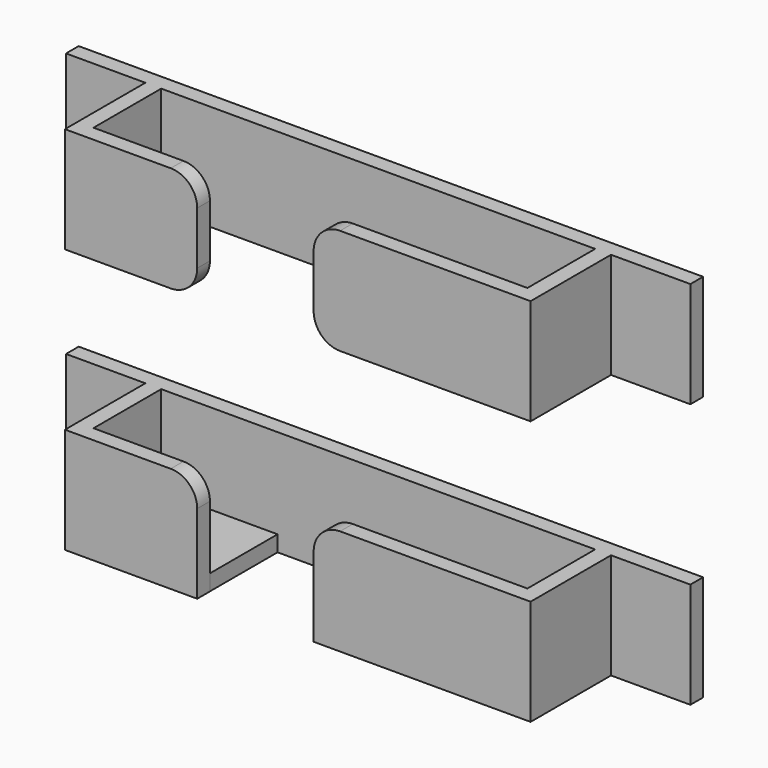
from build123d import *

# Parameters (mm, degrees)
F1_DEPTH  = 20
F3_W      = 22.0410469919
F3_H      = 16.0494968295
F3_W_2    = 38.4351052344
F3_H_2    = 17.3500169185
F4_DEPTH  = 3
F5_R      = 5
F9_DEPTH  = 25
F10_DEPTH = 3
F11_R     = 5


with BuildPart() as f1:
    # F0 (on Top) → F1 (new body)
    with BuildSketch(Plane.XY):
        Polygon((0, 3), (0, 0), (15, 0), (18, 0), (100, 0), (103, 0), (118, 0), (118, 3), align=None)
        Polygon((18, 0), (15, 0), (15, -19), (40, -19), (40, -16), (18, -16), align=None)
        Polygon((103, 0), (100, 0), (100, -16), (62, -16), (62, -19), (103, -19), align=None)
    extrude(amount=F1_DEPTH)

    # F3 (on offset) → F4 (join)
    with BuildSketch(Plane(origin=(0, 0, 0), x_dir=(1, 0, 0), z_dir=(0, 0, -1))):
        with Locations((28.9649507031, 8.0247484148)):
            Rectangle(F3_W, F3_H)
        with Locations((81.2598299235, 7.7891485707)):
            Rectangle(F3_W_2, F3_H_2)
    extrude(amount=-F4_DEPTH)

    # F5
    f5_edges = [f1.edges().sort_by_distance(p)[0] for p in [
        (40, -17.5, 20),
        (62, -17.5, 20),
    ]]
    fillet(f5_edges, radius=F5_R)


with BuildPart() as f6_1:
    # F6: copy of F1
    add(f1.part.moved(Location((0, 0, 50))))


with BuildPart() as f8_1:
    # F8: copy of F1
    add(f1.part.moved(Location((0, 0, 50))))

    # F9 (cut): a face of the model
    f9_faces = [f8_1.faces().sort_by_distance(p)[0] for p in [
        (28.9927370995, -8, 53),
    ]]
    extrude(f9_faces, amount=-F9_DEPTH, mode=Mode.SUBTRACT)

    # F10 (cut): a face of the model
    f10_faces = [f8_1.faces().sort_by_distance(p)[0] for p in [
        (81.0211386532, -8, 53),
    ]]
    extrude(f10_faces, amount=-F10_DEPTH, mode=Mode.SUBTRACT)

    # F11
    f11_edges = [f8_1.edges().sort_by_distance(p)[0] for p in [
        (40, -17.5, 50),
        (62, -17.5, 50),
    ]]
    fillet(f11_edges, radius=F11_R)


solid = Compound([f1.part, f8_1.part])
